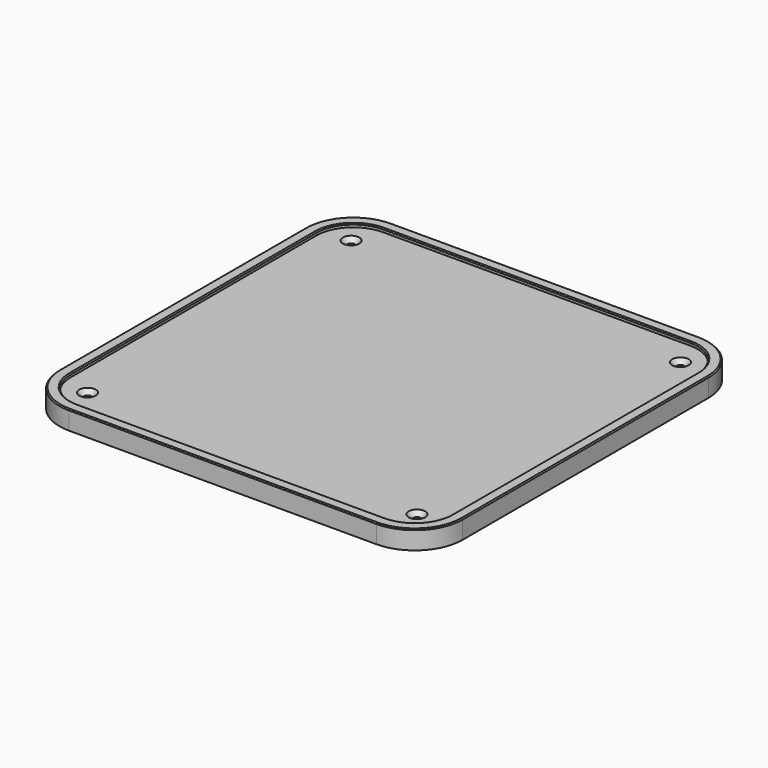
from build123d import *

# Parameters (mm, degrees)
PAD_DEPTH             = 4.2
SKETCH001_R           = 1.75
POCKET_DEPTH          = 4.201
SKETCH002_R           = 79.5
SKETCH002_R_2         = 72
POCKET001_DEPTH       = 3.2
POCKET002_DEPTH       = 510.187174
POLARPATTERN_COUNT    = 4
POCKET004_DEPTH       = 1
POLARPATTERN001_COUNT = 4
PAD001_DEPTH          = 7
THICKNESS_T           = 1.6
POCKET005_DEPTH       = 5
CHAMFER_SIZE          = 0.5
PAD002_DEPTH          = 3
BINDER002_R           = 1.75
POCKET006_DEPTH       = 5
CHAMFER001_SIZE       = 2


with BuildPart() as obj1:
    # Sketch → Pad (new body)
    with BuildSketch(Plane.XY):
        with BuildLine():
            Line((-70, -90), (70, -90))
            ThreePointArc((70, -90), (84.142136, -84.142136), (90, -70))
            Line((90, -70), (90, 70))
            ThreePointArc((90, 70), (84.142136, 84.142136), (70, 90))
            Line((70, 90), (-70, 90))
            ThreePointArc((-70, 90), (-84.142136, 84.142136), (-90, 70))
            Line((-90, 70), (-90, -70))
            ThreePointArc((-90, -70), (-84.142136, -84.142136), (-70, -90))
        make_face()
    extrude(amount=PAD_DEPTH)

    # Sketch001 (on Face10 of Pad) → Pocket (cut, through all)
    with BuildSketch(Plane.XY.offset(4.2)):
        with Locations((-75, 75)):
            Circle(SKETCH001_R)
        with Locations((75, 75)):
            Circle(SKETCH001_R)
        with Locations((75, -75)):
            Circle(SKETCH001_R)
        with Locations((-75, -75)):
            Circle(SKETCH001_R)
    extrude(amount=-POCKET_DEPTH, mode=Mode.SUBTRACT)

    # Sketch002 (on Face5 of Pocket) → Pocket001 (cut)
    with BuildSketch(Plane.XY.offset(4.2)):
        Circle(SKETCH002_R)
        Circle(SKETCH002_R_2, mode=Mode.SUBTRACT)
    extrude(amount=-POCKET001_DEPTH, mode=Mode.SUBTRACT)

    # Sketch003 (on Face16 of Pocket001) → Pocket002 (cut, through all)
    with BuildSketch(Plane.XY.offset(1)):
        with BuildLine():
            ThreePointArc((10.430464, 78.056184), (0, 78.75), (-10.430464, 78.056184))
            ThreePointArc((-10.430464, 78.056184), (-13.221366, 74.404355), (-9.569536, 71.613452))
            ThreePointArc((9.569536, 71.613452), (0, 72.25), (-9.569536, 71.613452))
            ThreePointArc((9.569536, 71.613452), (13.221366, 74.404355), (10.430464, 78.056184))
        make_face()
    pocket002 = extrude(amount=-POCKET002_DEPTH, mode=Mode.SUBTRACT)

    # PolarPattern: Pocket002 ×4 about axis
    polarpattern_axis = Axis((0, 0, 1), (0, 0, 1))
    for i in range(1, POLARPATTERN_COUNT):
        add(pocket002.rotate(polarpattern_axis, i * 360 / POLARPATTERN_COUNT), mode=Mode.SUBTRACT)

    # Sketch006 (on Face5 of PolarPattern) → Pocket004 (cut)
    with BuildSketch(Plane.XY.offset(4.2)):
        Polygon((0, 80), (2.5, 84.330127), (-2.5, 84.330127), align=None)
    pocket004 = extrude(amount=-POCKET004_DEPTH, mode=Mode.SUBTRACT)

    # PolarPattern001: Pocket004 ×4 about axis
    polarpattern001_axis = Axis((0, 0, 4.2), (0, 0, 1))
    for i in range(1, POLARPATTERN001_COUNT):
        add(pocket004.rotate(polarpattern001_axis, i * 360 / POLARPATTERN001_COUNT), mode=Mode.SUBTRACT)


with BuildPart() as obj2:
    # Binder → Pad001 (new body)
    with BuildSketch(Plane(origin=(0, 0, 7.5), x_dir=(0, 1, 0), z_dir=(0, 0, 1))):
        with BuildLine():
            Line((-90.2, 70), (-90.2, -70))
            ThreePointArc((-90.2, -70), (-84.283557, -84.283557), (-70, -90.2))
            Line((-70, -90.2), (70, -90.2))
            ThreePointArc((70, -90.2), (84.283557, -84.283557), (90.2, -70))
            Line((90.2, -70), (90.2, 70))
            ThreePointArc((90.2, 70), (84.283557, 84.283557), (70, 90.2))
            Line((70, 90.2), (-70, 90.2))
            ThreePointArc((-70, 90.2), (-84.283557, 84.283557), (-90.2, 70))
        make_face()
    extrude(amount=-PAD001_DEPTH)

    # Thickness
    thickness_openings = [obj2.faces().sort_by_distance(p)[0] for p in [
        (0, 0, 0.5),
    ]]
    offset(amount=THICKNESS_T, openings=thickness_openings, kind=Kind.INTERSECTION)

    # Sketch007 (on Face19 of Thickness) → Pocket005 (cut)
    with BuildSketch(Plane.XY.offset(9.1)):
        with BuildLine():
            Line((-86.8, 70), (-86.8, -70))
            ThreePointArc((-86.8, -70), (-81.879394, -81.879394), (-70, -86.8))
            Line((-70, -86.8), (70, -86.8))
            ThreePointArc((70, -86.8), (81.879394, -81.879394), (86.8, -70))
            Line((86.8, -70), (86.8, 70))
            ThreePointArc((86.8, 70), (81.879394, 81.879394), (70, 86.8))
            Line((70, 86.8), (-70, 86.8))
            ThreePointArc((-70, 86.8), (-81.879394, 81.879394), (-86.8, 70))
        make_face()
    extrude(amount=-POCKET005_DEPTH, mode=Mode.SUBTRACT)

    # Chamfer
    chamfer_edges = [obj2.edges().sort_by_distance(p)[0] for p in [
        (-86.8, 0, 9.1),
        (-91.8, 0, 9.1),
    ]]
    chamfer(chamfer_edges, length=CHAMFER_SIZE)


with BuildPart() as obj3:
    # Binder001 → Pad002 (new body)
    with BuildSketch(Plane(origin=(0, 0, 4.3), x_dir=(0, 1, 0), z_dir=(0, 0, 1))):
        with BuildLine():
            Line((-90, 70), (-90, -70))
            ThreePointArc((-90, -70), (-84.142136, -84.142136), (-70, -90))
            Line((-70, -90), (70, -90))
            ThreePointArc((70, -90), (84.142136, -84.142136), (90, -70))
            Line((90, -70), (90, 70))
            ThreePointArc((90, 70), (84.142136, 84.142136), (70, 90))
            Line((70, 90), (-70, 90))
            ThreePointArc((-70, 90), (-84.142136, 84.142136), (-90, 70))
        make_face()
    extrude(amount=PAD002_DEPTH)

    # Binder002 → Pocket006 (cut)
    with BuildSketch(Plane(origin=(-75, -75, 4.2), x_dir=(0, 1, 0), z_dir=(0, 0, 1))):
        Circle(BINDER002_R)
        with Locations((0, -150)):
            Circle(BINDER002_R)
        with Locations((150, -150)):
            Circle(BINDER002_R)
        with Locations((150, 0)):
            Circle(BINDER002_R)
    extrude(amount=POCKET006_DEPTH, mode=Mode.SUBTRACT)

    # Chamfer001
    chamfer001_edges = [obj3.edges().sort_by_distance(p)[0] for p in [
        (-76.75, -75, 7.3),
        (73.25, -75, 7.3),
        (73.25, 75, 7.3),
        (-76.75, 75, 7.3),
    ]]
    chamfer(chamfer001_edges, length=CHAMFER001_SIZE)


solid = Compound([obj1.part, obj2.part, obj3.part])
